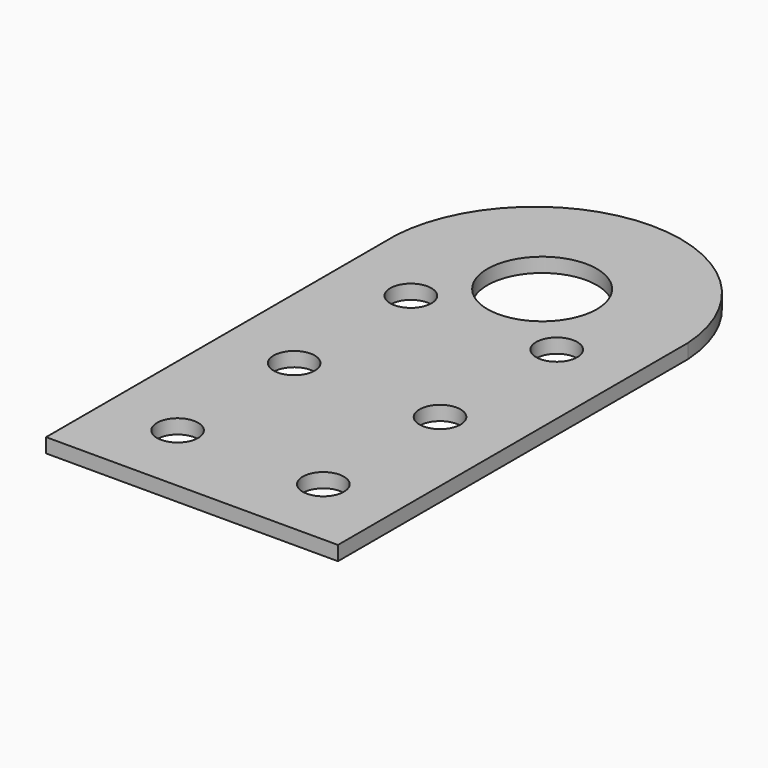
from build123d import *

# Parameters (mm, degrees)
SKETCH_R   = 14.3256
SKETCH_R_2 = 38.1
PAD_DEPTH  = 10.000005


with BuildPart() as part:
    # Sketch → Pad (new body)
    with BuildSketch(Plane.XY):
        with BuildLine():
            Line((0, 304.8), (0, 0))
            Line((0, 0), (-203.3016, 0))
            Line((-203.3016, 0), (-203.3016, 304.8))
            ThreePointArc((0, 304.8), (-101.6508, 400.298945), (-203.3016, 304.8))
        make_face()
        with Locations((-152.4, 50.9016)):
            Circle(SKETCH_R, mode=Mode.SUBTRACT)
        with Locations((-50.9016, 50.9016)):
            Circle(SKETCH_R, mode=Mode.SUBTRACT)
        with Locations((-152.4, 152.4)):
            Circle(SKETCH_R, mode=Mode.SUBTRACT)
        with Locations((-50.8, 152.4)):
            Circle(SKETCH_R, mode=Mode.SUBTRACT)
        with Locations((-152.4, 254)):
            Circle(SKETCH_R, mode=Mode.SUBTRACT)
        with Locations((-50.8, 254)):
            Circle(SKETCH_R, mode=Mode.SUBTRACT)
        with Locations((-101.6, 304.8)):
            Circle(SKETCH_R_2, mode=Mode.SUBTRACT)
    extrude(amount=PAD_DEPTH)


solid = part.part
